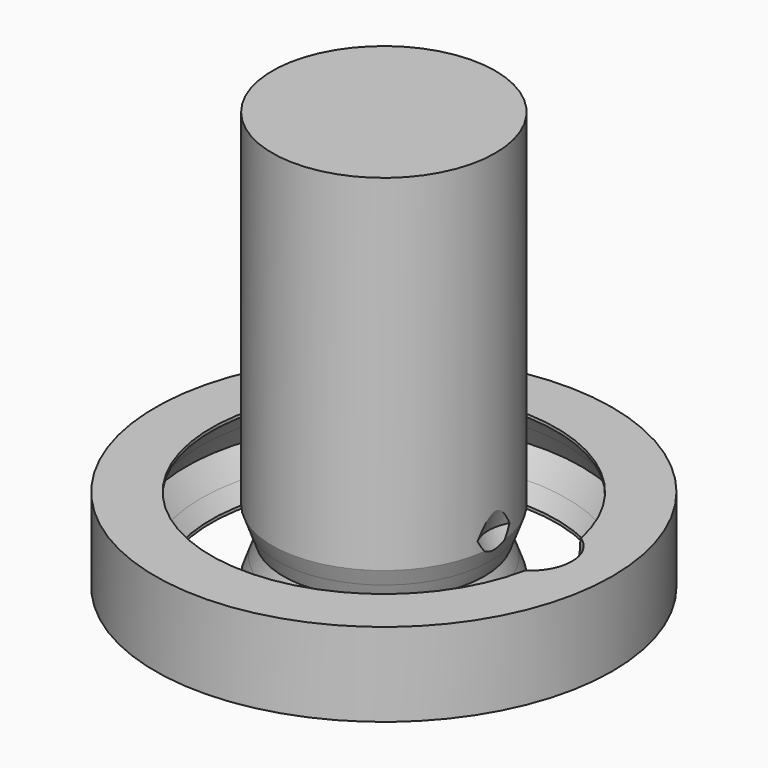
from build123d import *

# Parameters (mm, degrees)
F2_R     = 1.5
F3_DEPTH = 1.5
F3_TAPER = 20


with BuildPart() as f1:
    # F0 (on Front) → F1 (revolve)
    with BuildSketch(Plane.XZ):
        Polygon((0, 15), (0, 0), (4, 0), (4, 0.4024499541), (3.7934764173, 0.9698688341), (3.6005244527, 1.5), (3.7934764478, 2.0301312496), (4, 2.5975500459), (4, 15), align=None)
    revolve(axis=Axis((0, 0, 7.5), (0, 0, 1)))


with BuildPart() as f1b:
    # F0 (on Front) → F1, piece 2 (revolve)
    with BuildSketch(Plane.XZ):
        Polygon((6.5572567367, 0.6671856002), (6.2, 0.1064048534), (6.2, 0), (8.2, 0), (8.2, 3), (6.2, 3), (6.2, 2.8935951466), (6.5572567677, 2.3328143511), (7.0878180235, 1.5), align=None)
    revolve(axis=Axis((0, 0, 7.5), (0, 0, 1)))


with BuildPart() as f3_tool:
    # F2 (on face) → F3 (new body, symmetric)
    with BuildSketch(Plane.XY.offset(3)):
        with Locations((5.25, 0)):
            Circle(F2_R)
    extrude(amount=F3_DEPTH, both=True, taper=F3_TAPER)


with BuildPart() as f1_1:
    add(f1.part)

    # F3: cut by f3_tool
    add(f3_tool.part, mode=Mode.SUBTRACT)


with BuildPart() as f1b_1:
    add(f1b.part)

    # F3: cut by f3_tool
    add(f3_tool.part, mode=Mode.SUBTRACT)


solid = Compound([f1_1.part, f1b_1.part])
